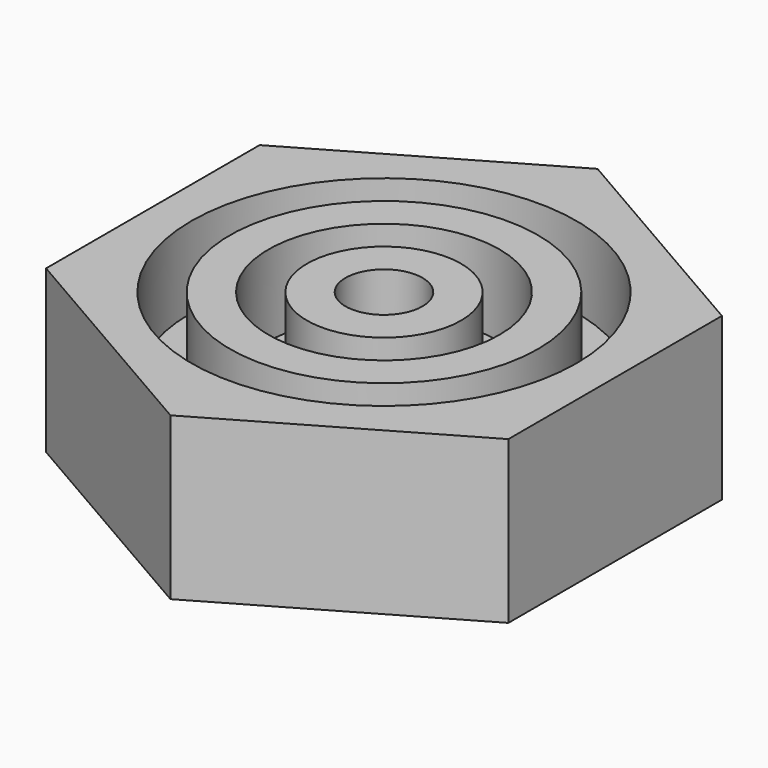
from build123d import *

# Parameters (mm, degrees)
F0_R     = 50
F0_R_2   = 40
F0_R_3   = 30
F0_R_4   = 20
F0_R_5   = 10
F1_DEPTH = 42
F2_DEPTH = 21


with BuildPart() as f1:
    # F0 (on Top) → F1 (new body)
    with BuildSketch(Plane.XY):
        Polygon((60, -34.641016), (60, 34.641016), (0, 69.282032), (-60, 34.641016), (-60, -34.641016), (0, -69.282032), align=None)
        Circle(F0_R, mode=Mode.SUBTRACT)
        Circle(F0_R_2)
        Circle(F0_R_3, mode=Mode.SUBTRACT)
        Circle(F0_R_4)
        Circle(F0_R_5, mode=Mode.SUBTRACT)
    extrude(amount=F1_DEPTH)


with BuildPart() as f2:
    # F0 (on Top) → F2 (new body)
    with BuildSketch(Plane.XY):
        Circle(F0_R)
        Circle(F0_R_2, mode=Mode.SUBTRACT)
        Circle(F0_R_3)
        Circle(F0_R_4, mode=Mode.SUBTRACT)
        Circle(F0_R_5)
    extrude(amount=F2_DEPTH)


solid = Compound([f1.part, f2.part])
